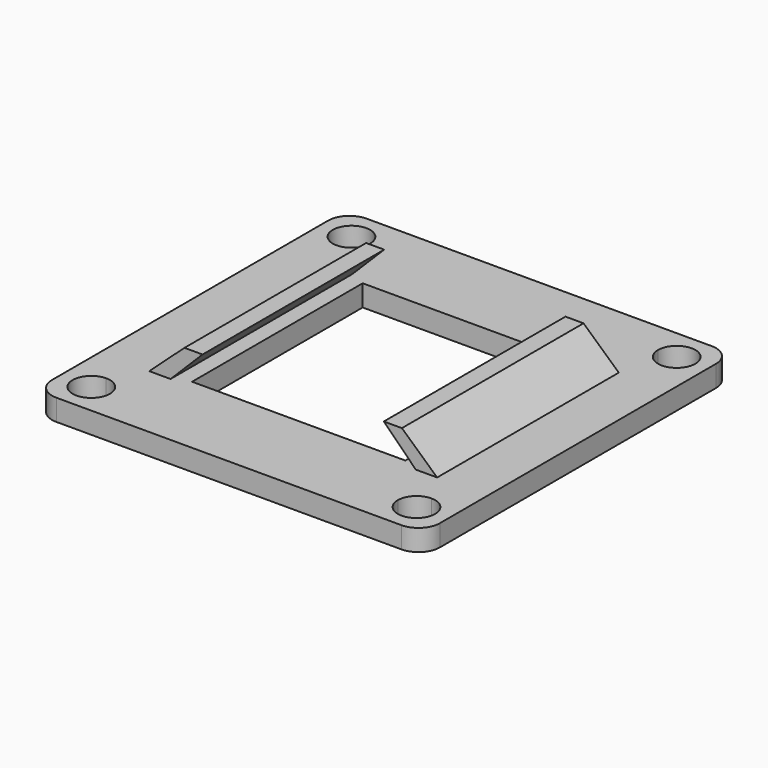
from build123d import *

# Parameters (mm, degrees)
F0_W     = 36.3689862838
F0_H     = 36.3689862838
F1_DEPTH = 2
F2_R     = 2
F3_W     = 20
F3_H     = 20
F4_DEPTH = 25
F5_W     = 2
F5_H     = 21.2931740639
F7_W     = 1.6942393252
F7_H     = 21.2931740639


with BuildPart() as f1:
    # F0 (on Top) → F1 (new body)
    with BuildSketch(Plane.XY):
        Rectangle(F0_W, F0_H)
        with BuildLine():
            ThreePointArc((-15.25, 13.5), (-16.4874368671, 16.4874368671), (-13.5, 15.25))
            Line((-13.5, 15.25), (13.5, 15.25))
            ThreePointArc((13.5, 15.25), (15.25, 17), (17, 15.25))
            ThreePointArc((17, 15.25), (16.4874368671, 14.0125631329), (15.25, 13.5))
            Line((15.25, 13.5), (15.25, -13.5))
            ThreePointArc((15.25, -13.5), (16.4874368671, -14.0125631329), (17, -15.25))
            ThreePointArc((17, -15.25), (15.25, -17), (13.5, -15.25))
            Line((13.5, -15.25), (-13.5, -15.25))
            ThreePointArc((-13.5, -15.25), (-16.4874368671, -16.4874368671), (-15.25, -13.5))
            Line((-15.25, -13.5), (-15.25, 13.5))
        make_face(mode=Mode.SUBTRACT)
        with BuildLine():
            Line((13.5, 15.25), (-13.5, 15.25))
            ThreePointArc((-13.5, 15.25), (-14.0125631329, 14.0125631329), (-15.25, 13.5))
            Line((-15.25, 13.5), (-15.25, -13.5))
            ThreePointArc((-15.25, -13.5), (-14.0125631329, -14.0125631329), (-13.5, -15.25))
            Line((-13.5, -15.25), (13.5, -15.25))
            ThreePointArc((13.5, -15.25), (14.0125631329, -14.0125631329), (15.25, -13.5))
            Line((15.25, -13.5), (15.25, 13.5))
            ThreePointArc((15.25, 13.5), (14.0125631329, 14.0125631329), (13.5, 15.25))
        make_face()
    extrude(amount=F1_DEPTH)

    # F2
    f2_edges = [f1.edges().sort_by_distance(p)[0] for p in [
        (-18.184493, 18.184493, 1),
        (-18.184493, -18.184493, 1),
        (18.184493, 18.184493, 1),
        (18.184493, -18.184493, 1),
    ]]
    fillet(f2_edges, radius=F2_R)

    # F3 (on face) → F4 (cut)
    with BuildSketch(Plane.XY.offset(2)):
        Rectangle(F3_W, F3_H)
    extrude(amount=-F4_DEPTH, mode=Mode.SUBTRACT)

    # F5 (on face) → F8 section 0
    with BuildSketch(Plane.XY.offset(2)):
        with Locations((-12.5, 0)):
            Rectangle(F5_W, F5_H)
    # F7 (on offset) → F8 section 1
    with BuildSketch(Plane.XY.offset(5)):
        with Locations((-9.3471196626, 0)):
            Rectangle(F7_W, F7_H)
    loft()

    # F5 (on face) → F9 section 0
    with BuildSketch(Plane.XY.offset(2)):
        with Locations((12.5, 0)):
            Rectangle(F5_W, F5_H)
    # F7 (on offset) → F9 section 1
    with BuildSketch(Plane.XY.offset(5)):
        with Locations((9.3471196626, 0)):
            Rectangle(F7_W, F7_H)
    loft()


solid = f1.part
